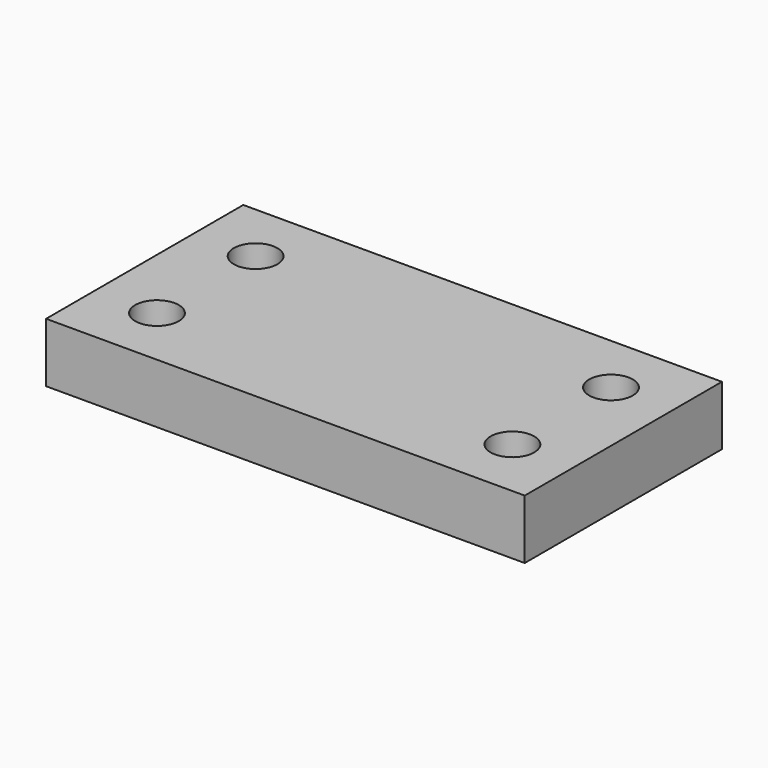
from build123d import *

# Parameters (mm, degrees)
SKETCH_W  = 49.3268
SKETCH_H  = 25.4
SKETCH_R  = 2.2479
PAD_DEPTH = 6.1214


with BuildPart() as part:
    # Sketch → Pad (new body)
    with BuildSketch(Plane.XY):
        Rectangle(SKETCH_W, SKETCH_H)
        with Locations((-18.3134, 6.35)):
            Circle(SKETCH_R, mode=Mode.SUBTRACT)
        with Locations((-18.3134, -6.35)):
            Circle(SKETCH_R, mode=Mode.SUBTRACT)
        with Locations((18.3134, -6.35)):
            Circle(SKETCH_R, mode=Mode.SUBTRACT)
        with Locations((18.3134, 6.35)):
            Circle(SKETCH_R, mode=Mode.SUBTRACT)
    extrude(amount=PAD_DEPTH)


solid = part.part
